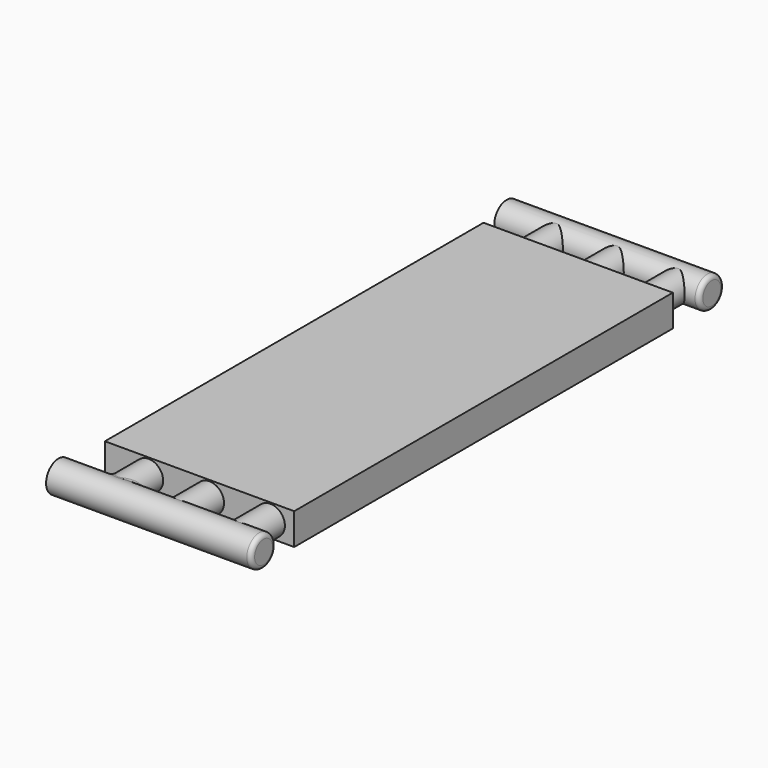
from build123d import *

# Parameters (mm, degrees)
CYLINDER001_R           = 12.5
CYLINDER001_DEPTH       = 165.1
CYLINDER001_PITCH_ANGLE = 90
CYLINDER002_R           = 11.7
CYLINDER002_DEPTH       = 452.12
CYLINDER002_ROLL_ANGLE  = 90
CYLINDER004_R           = 11.7
CYLINDER004_DEPTH       = 452.12
CYLINDER004_ROLL_ANGLE  = 90
CYLINDER003_R           = 11.7
CYLINDER003_DEPTH       = 452.12
CYLINDER003_ROLL_ANGLE  = 90
CYLINDER_R              = 12.5
CYLINDER_DEPTH          = 165.1
CYLINDER_PITCH_ANGLE    = 90
CUBE_W                  = 152.4
CUBE_H                  = 381
CUBE_DEPTH              = 25.4
FILLET_R                = 4.5
SKETCH_R                = 6.5
POCKET_DEPTH            = 150
FILLET001_R             = 3.5


with BuildPart() as cylinder001:
    # cylinder001 → cylinder001 (new body)
    with BuildSketch(Plane.XY):
        Circle(CYLINDER001_R)
    extrude(amount=CYLINDER001_DEPTH)


with BuildPart() as cylinder001_1:
    # cylinder001 pitch: moved
    add(cylinder001.part.rotate(Axis((0, 0, 0), (0, 1, 0)), CYLINDER001_PITCH_ANGLE))


with BuildPart() as cylinder001_2:
    # cylinder001 placement: moved
    add(cylinder001_1.part.moved(Location((-92.55, 441, 0))))


with BuildPart() as cylinder002:
    # cylinder002 → cylinder002 (new body)
    with BuildSketch(Plane.XY):
        Circle(CYLINDER002_R)
    extrude(amount=CYLINDER002_DEPTH)


with BuildPart() as cylinder002_1:
    # cylinder002 roll: moved
    add(cylinder002.part.rotate(Axis((0, 0, 0), (1, 0, 0)), CYLINDER002_ROLL_ANGLE))


with BuildPart() as cylinder002_2:
    # cylinder002 placement: moved
    add(cylinder002_1.part.moved(Location((-49, 442.81, 0))))


with BuildPart() as cylinder004:
    # cylinder004 → cylinder004 (new body)
    with BuildSketch(Plane.XY):
        Circle(CYLINDER004_R)
    extrude(amount=CYLINDER004_DEPTH)


with BuildPart() as cylinder004_1:
    # cylinder004 roll: moved
    add(cylinder004.part.rotate(Axis((0, 0, 0), (1, 0, 0)), CYLINDER004_ROLL_ANGLE))


with BuildPart() as cylinder004_2:
    # cylinder004 placement: moved
    add(cylinder004_1.part.moved(Location((49, 442.81, 0))))


with BuildPart() as cylinder003:
    # cylinder003 → cylinder003 (new body)
    with BuildSketch(Plane.XY):
        Circle(CYLINDER003_R)
    extrude(amount=CYLINDER003_DEPTH)


with BuildPart() as cylinder003_1:
    # cylinder003 roll: moved
    add(cylinder003.part.rotate(Axis((0, 0, 0), (1, 0, 0)), CYLINDER003_ROLL_ANGLE))


with BuildPart() as cylinder003_2:
    # cylinder003 placement: moved
    add(cylinder003_1.part.moved(Location((0, 442.81, 0))))


with BuildPart() as fusion:
    # cylinder → cylinder (new body)
    with BuildSketch(Plane.XY):
        Circle(CYLINDER_R)
    extrude(amount=CYLINDER_DEPTH)


with BuildPart() as fusion_1:
    # cylinder pitch: moved
    add(fusion.part.rotate(Axis((0, 0, 0), (0, 1, 0)), CYLINDER_PITCH_ANGLE))


with BuildPart() as fusion_2:
    # cylinder placement: moved
    add(fusion_1.part.moved(Location((-92.55, -10, 0))))

    # Fusion: union cylinder001, cylinder002, cylinder004, cylinder003
    add(cylinder001_2.part)
    add(cylinder002_2.part)
    add(cylinder004_2.part)
    add(cylinder003_2.part)


with BuildPart() as fillet001:
    # cube → cube (new body)
    with BuildSketch(Plane(origin=(-84.2, 26.25, -12.7), x_dir=(1, 0, 0), z_dir=(0, 0, 1))):
        with Locations((76.2, 190.5)):
            Rectangle(CUBE_W, CUBE_H)
    extrude(amount=CUBE_DEPTH)

    # Fusion001: union Fusion
    add(fusion_2.part)

    # Fillet
    fillet_edges = [fillet001.edges().sort_by_distance(p)[0] for p in [
        (-37.3, 417.875, 0),
        (-40.949106, -0.825203, 8.489588),
    ]]
    fillet(fillet_edges, radius=FILLET_R)

    # Sketch → Pocket (cut)
    with BuildSketch(Plane(origin=(-92.55, 0, 0), x_dir=(0, -1, 0), z_dir=(-1, 0, 0))):
        with Locations((10.124145, 0)):
            Circle(SKETCH_R)
        with Locations((-441.137238, 0)):
            Circle(SKETCH_R)
    extrude(amount=-POCKET_DEPTH, mode=Mode.SUBTRACT)

    # Fillet001
    fillet001_edges = [fillet001.edges().sort_by_distance(p)[0] for p in [
        (72.55, -10, 12.5),
        (72.55, 441, 12.5),
    ]]
    fillet(fillet001_edges, radius=FILLET001_R)


solid = fillet001.part
